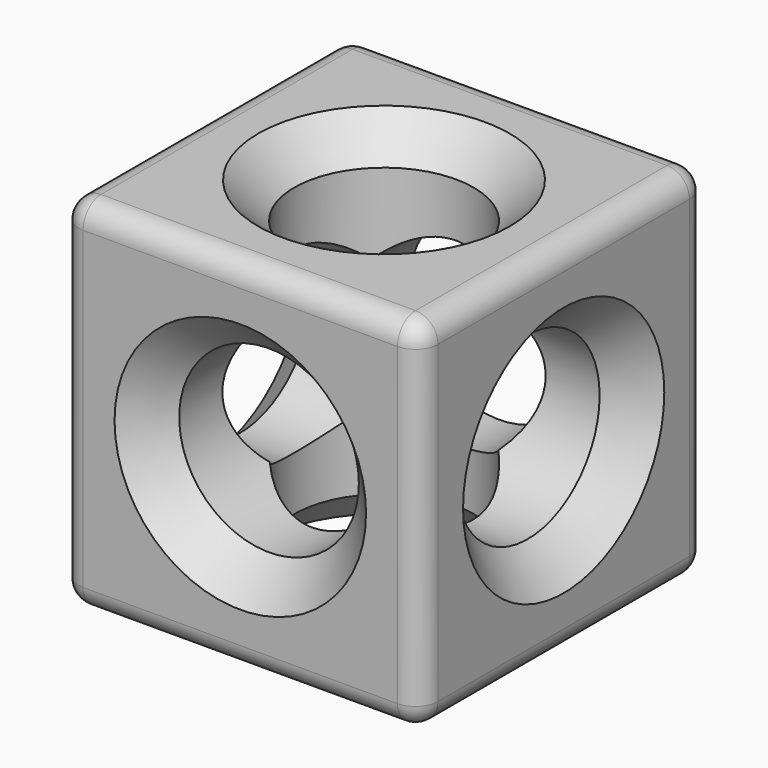
from build123d import *

# Parameters (mm, degrees)
F0_W     = 50.8113652468
F0_H     = 50.8
F1_DEPTH = 50.8
F2_R     = 12.7
F3_DEPTH = 50.8
F4_R     = 12.7
F5_DEPTH = 50.8
F6_DEPTH = 50.8
F7_R     = 12.7
F8_DEPTH = 50.8
F9_R     = 3.175
F10_SIZE = 5.08


with BuildPart() as f1:
    # F0 (on Front) → F1 (new body)
    with BuildSketch(Plane.XZ):
        with Locations((25.4056826234, 25.4)):
            Rectangle(F0_W, F0_H)
    extrude(amount=F1_DEPTH)

    # F2 (on face) → F3 (cut)
    with BuildSketch(Plane.XZ.offset(50.8)):
        with Locations((25.4056826234, 25.4)):
            Circle(F2_R)
    extrude(amount=-F3_DEPTH, mode=Mode.SUBTRACT)

    # F4 (on face) → F5 (cut)
    with BuildSketch(Plane.YZ.offset(50.8113652468)):
        with Locations((-25.4, 25.4)):
            Circle(F4_R)
    extrude(amount=-F5_DEPTH, mode=Mode.SUBTRACT)

    # F6 (cut): a face of the model
    f6_faces = [f1.faces().sort_by_distance(p)[0] for p in [
        (0.0113652468, -25.4, 25.4),
    ]]
    extrude(f6_faces, amount=-F6_DEPTH, mode=Mode.SUBTRACT)

    # F7 (on face) → F8 (cut)
    with BuildSketch(Plane.XY.offset(50.8)):
        with Locations((25.4056826234, -25.4)):
            Circle(F7_R)
    extrude(amount=-F8_DEPTH, mode=Mode.SUBTRACT)

    # F9
    f9_edges = [f1.edges().sort_by_distance(p)[0] for p in [
        (50.811365, -25.4, 50.8),
        (25.405683, -50.8, 50.8),
        (0, -25.4, 50.8),
        (25.405683, 0, 50.8),
        (50.811365, -50.8, 25.4),
        (50.811365, 0, 25.4),
        (50.811365, -25.4, 0),
        (25.405683, -50.8, 0),
        (0, -50.8, 25.4),
        (0, 0, 25.4),
        (25.405683, 0, 0),
        (0, -25.4, 0),
    ]]
    fillet(f9_edges, radius=F9_R)

    # F10
    f10_edges = [f1.edges().sort_by_distance(p)[0] for p in [
        (12.705683, -50.8, 25.4),
        (12.705683, -25.4, 0),
        (0, -25.4, 47.625),
        (0, -3.175, 25.4),
        (0, -47.625, 25.4),
        (0, -25.4, 3.175),
        (0, -38.1, 25.4),
        (12.705683, 0, 25.4),
        (12.705683, -25.4, 50.8),
        (50.811365, -38.1, 25.4),
    ]]
    chamfer(f10_edges, length=F10_SIZE)


solid = f1.part
